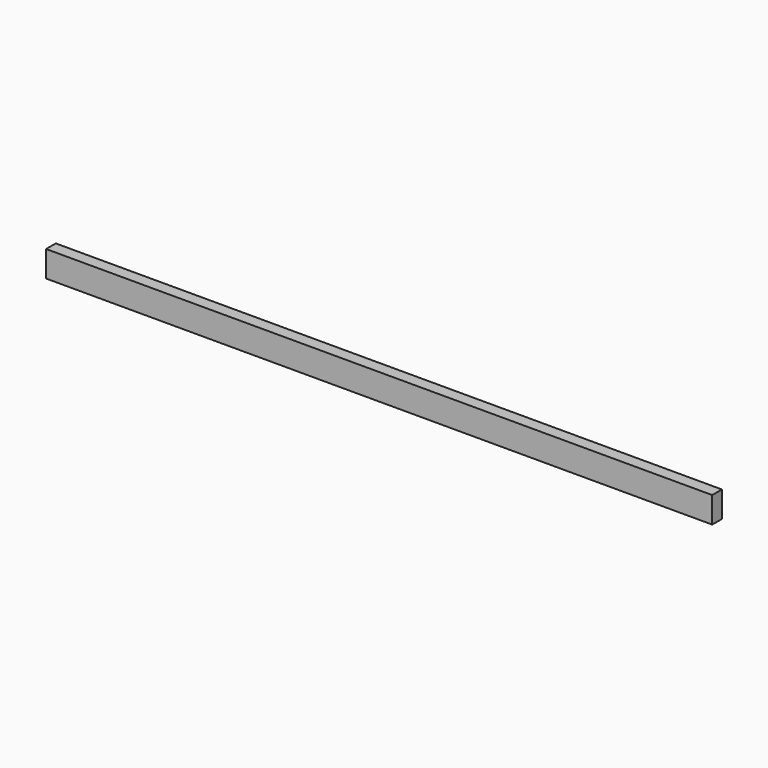
from build123d import *

# Parameters (mm, degrees)
F0_W     = 2457.3111534119
F0_H     = 115.5486032367
F1_DEPTH = 22.225
F2_DEPTH = 192.93608
F3_DEPTH = 19.177
F4_DEPTH = 0.2667
F5_DEPTH = 12.7
F6_DEPTH = 1.24968
F7_DEPTH = 25.4
F8_DEPTH = 19.05


with BuildPart() as f1:
    # F0 (on Front) → F1 (new body, symmetric)
    with BuildSketch(Plane.XZ):
        Rectangle(F0_W, F0_H)
    extrude(amount=F1_DEPTH, both=True)

    # F2 (add): a face of the model
    f2_faces = [f1.faces().sort_by_distance(p)[0] for p in [
        (-1228.6555767059, 0, 0),
    ]]
    extrude(f2_faces, amount=-F2_DEPTH)

    # F3 (cut): a face of the model
    f3_faces = [f1.faces().sort_by_distance(p)[0] for p in [
        (-1228.6555767059, 0, 0),
    ]]
    extrude(f3_faces, amount=-F3_DEPTH, mode=Mode.SUBTRACT)

    # F4 (add): a face of the model
    f4_faces = [f1.faces().sort_by_distance(p)[0] for p in [
        (-1209.4785767059, 0, 0),
    ]]
    extrude(f4_faces, amount=F4_DEPTH)

    # F5 (cut): a face of the model
    f5_faces = [f1.faces().sort_by_distance(p)[0] for p in [
        (9.45515, 0, -57.7743016183),
    ]]
    extrude(f5_faces, amount=-F5_DEPTH, mode=Mode.SUBTRACT)

    # F6 (cut): a face of the model
    f6_faces = [f1.faces().sort_by_distance(p)[0] for p in [
        (9.45515, 0, -45.0743016183),
    ]]
    extrude(f6_faces, amount=-F6_DEPTH, mode=Mode.SUBTRACT)

    # F7 (cut): a face of the model
    f7_faces = [f1.faces().sort_by_distance(p)[0] for p in [
        (9.45515, 0, -43.8246216183),
    ]]
    extrude(f7_faces, amount=-F7_DEPTH, mode=Mode.SUBTRACT)

    # F8 (add): a face of the model
    f8_faces = [f1.faces().sort_by_distance(p)[0] for p in [
        (9.45515, 0, -18.4246216183),
    ]]
    extrude(f8_faces, amount=F8_DEPTH)


solid = f1.part
